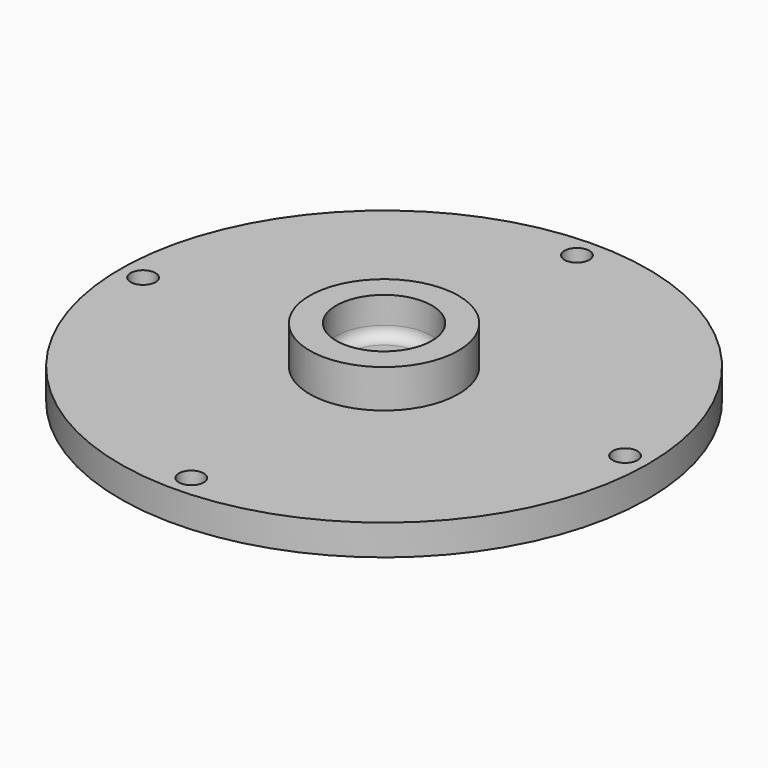
from build123d import *

# Parameters (mm, degrees)
F0_R     = 69
F0_R_2   = 3.25
F1_DEPTH = 8
F2_R     = 19.45
F2_R_2   = 12.5
F3_DEPTH = 10
F4_R     = 3


with BuildPart() as f1:
    # F0 (on Top) → F1 (new body)
    with BuildSketch(Plane.XY):
        Circle(F0_R)
        with Locations((0, -63)):
            Circle(F0_R_2, mode=Mode.SUBTRACT)
        with Locations((-63, 0)):
            Circle(F0_R_2, mode=Mode.SUBTRACT)
        with Locations((63, 0)):
            Circle(F0_R_2, mode=Mode.SUBTRACT)
        with Locations((0, 63)):
            Circle(F0_R_2, mode=Mode.SUBTRACT)
    extrude(amount=F1_DEPTH)

    # F2 (on face) → F3 (join)
    with BuildSketch(Plane.XY.offset(8)):
        Circle(F2_R)
        Circle(F2_R_2, mode=Mode.SUBTRACT)
    extrude(amount=F3_DEPTH)

    # F4
    f4_edges = [f1.edges().sort_by_distance(p)[0] for p in [
        (-12.5, 0, 8),
    ]]
    fillet(f4_edges, radius=F4_R)


solid = f1.part
